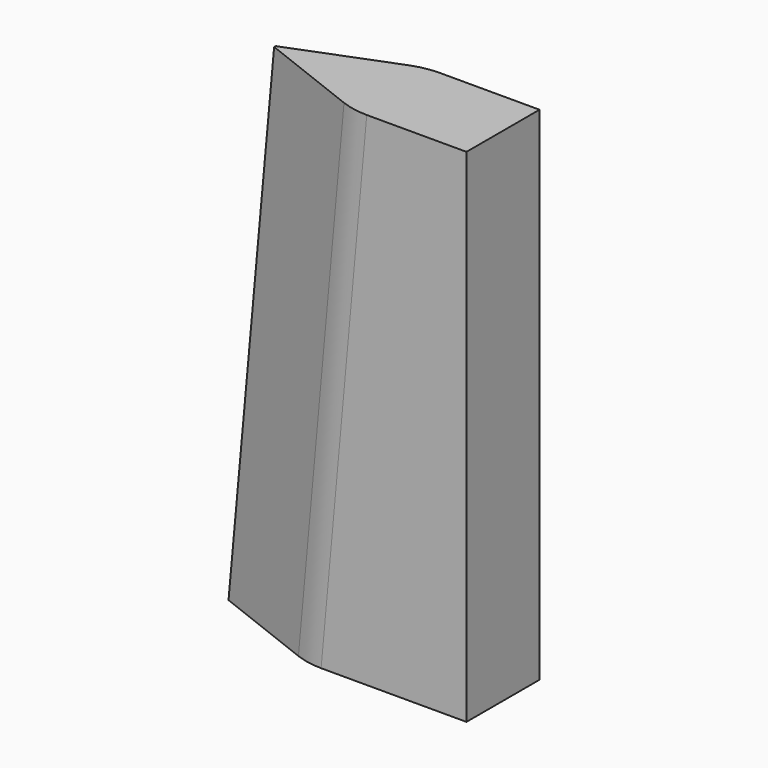
from build123d import *

# Parameters (mm, degrees)
PAD002_DEPTH  = 50
CHAMFER_SIZE2 = 125
CHAMFER_SIZE  = 49
FILLET_R      = 80


with BuildPart() as part:
    # Sketch004 → Pad002 (new body, symmetric)
    with BuildSketch(Plane.XZ):
        Polygon((0, 0), (300, 0), (300, 550), (50, 550), align=None)
    extrude(amount=PAD002_DEPTH, both=True)

    # Chamfer
    chamfer_edges = [part.edges().sort_by_distance(p)[0] for p in [
        (25, 50, 275),
        (25, -50, 275),
    ]]
    chamfer_side = part.faces().sort_by_distance((25, 0, 275))[0]
    chamfer(chamfer_edges, length=CHAMFER_SIZE, length2=CHAMFER_SIZE2, reference=chamfer_side)


with BuildPart() as part_1:
    # Body005 placement: moved
    add(part.part.moved(Location((3844.9642, 0, 513))))

    # Fillet
    fillet_edges = [part_1.edges().sort_by_distance(p)[0] for p in [
        (3995.479666, 50, 788),
        (3995.479666, -50, 788),
    ]]
    fillet(fillet_edges, radius=FILLET_R)


solid = part_1.part
